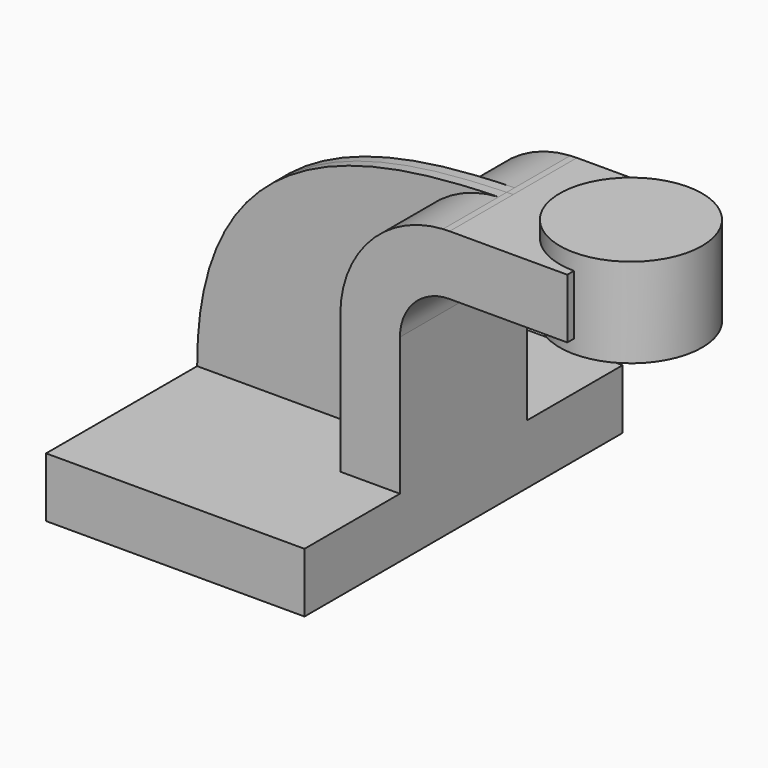
from build123d import *

# Parameters (mm, degrees)
F1_DEPTH = 63.5
F0_W     = 28.067
F0_H     = 19.05
F2_DEPTH = 25.4
F3_DEPTH = 3.175


with BuildPart() as f1:
    # F0 (on Front) → F1 (new body, symmetric)
    with BuildSketch(Plane.XZ):
        Polygon((-41.275, 9.525), (-41.275, -9.525), (41.275, -9.525), (41.275, 9.525), (22.225, 9.525), align=None)
    extrude(amount=F1_DEPTH, both=True)

    # F0 (on Front) → F2 (join, symmetric)
    with BuildSketch(Plane.XZ):
        with BuildLine():
            Line((22.225, 9.525), (41.275, 9.525))
            Line((41.275, 9.525), (41.275, 53.5730462312))
            ThreePointArc((41.275, 53.5730462312), (45.9246798487, 64.7983663825), (57.15, 69.4480462312))
            Line((57.15, 69.4480462312), (66.675, 69.4480462312))
            Line((66.675, 69.4480462312), (66.675, 88.4980462312))
            Line((66.675, 88.4980462312), (57.15, 88.4980462312))
            add(Edge.make_bspline(
                [(55.0500442631, 88.4348564381), (55.7636307959, 88.4570758509), (56.4639128881, 88.477925733), (57.15, 88.4980462312)],
                knots=[123.5650142277, 123.5650142277, 123.5650142277, 123.5650142277, 126.1912146547, 126.1912146547, 126.1912146547, 126.1912146547], degree=3))
            ThreePointArc((55.0500442631, 88.4348564381), (31.7226861514, 77.5147950279), (22.225, 53.5730462312))
            Line((22.225, 53.5730462312), (22.225, 9.525))
        make_face()
        with Locations((80.7085, 78.9730462312)):
            Rectangle(F0_W, F0_H)
    extrude(amount=F2_DEPTH, both=True)

    # F0 (on Front) → F3 (join, symmetric)
    with BuildSketch(Plane.XZ):
        with BuildLine():
            add(Edge.make_bspline(
                [(-41.275, 9.525), (-41.5528520698, 83.3121254449), (21.4751772531, 87.3894137404), (55.0500442631, 88.4348564381)],
                knots=[0, 0, 0, 0, 123.5650142277, 123.5650142277, 123.5650142277, 123.5650142277], degree=3))
            Line((-41.275, 9.525), (22.225, 9.525))
            Line((22.225, 9.525), (22.225, 53.5730462312))
            ThreePointArc((22.225, 53.5730462312), (31.7226861514, 77.5147950279), (55.0500442631, 88.4348564381))
        make_face()
    extrude(amount=F3_DEPTH, both=True)

    # F0 (on Front) → F4 (revolve)
    with BuildSketch(Plane.XZ):
        Polygon((94.742, 93.6625), (94.742, 88.4980462312), (94.742, 69.4480462312), (94.742, 65.0875), (117.475, 65.0875), (117.475, 93.6625), align=None)
    revolve(axis=Axis((94.742, 0, 79.375), (0, 0, 1)))


solid = f1.part
